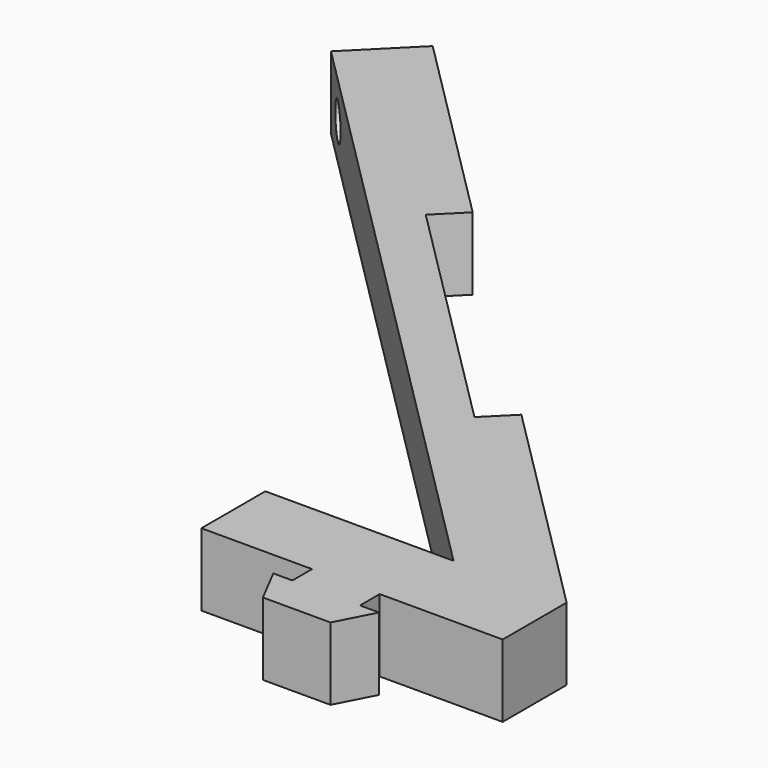
from build123d import *

# Parameters (mm, degrees)
F1_DEPTH = 5.9
F2_R     = 1.5
F3_DEPTH = 6.5


with BuildPart() as f1:
    # F0 (on Top) → F1 (new body)
    with BuildSketch(Plane.XY):
        Polygon((-10, 0), (0, 0), (0, 6.5), (-18.384776, 24.884776), (-20.506097, 22.763456), (-40.305087, 42.562446), (-38.183766, 44.683766), (-54.447222, 60.947222), (-59.043416, 56.351028), (-9.192388, 6.5), (-24.5, 6.5), (-24.5, 0), (-15.5, 0), (-15.5, -2), (-17.05, -2), (-15.5, -5), (-10, -5), (-8.45, -2), (-10, -2), align=None)
    extrude(amount=F1_DEPTH)

    # F2 (on face) → F3 (cut, through all)
    with BuildSketch(Plane(origin=(3.25, 3.25, 0), x_dir=(-0.707107, 0.707107, 0), z_dir=(0.707107, 0.707107, 0))):
        with Locations((77.596194, 2.95)):
            Circle(F2_R)
        with Locations((12.596194, 2.95)):
            Circle(F2_R)
    extrude(amount=-F3_DEPTH, mode=Mode.SUBTRACT)


solid = f1.part
